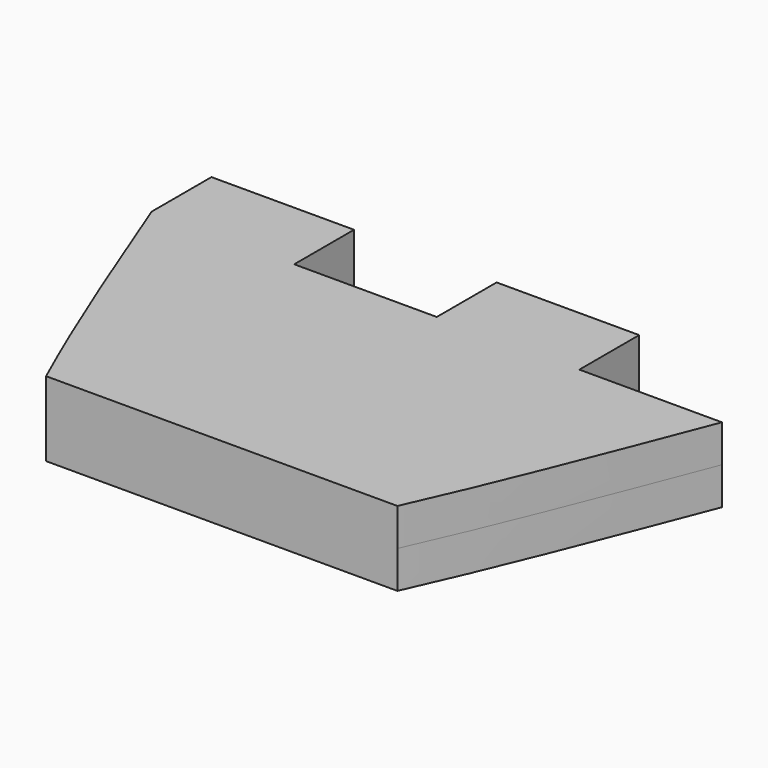
from build123d import *

# Parameters (mm, degrees)
F1_DEPTH = 1.6


with BuildPart() as f1:
    # F0 (on Top) → F1 (new body, symmetric)
    with BuildSketch(Plane.XY):
        with BuildLine():
            Line((-12.2, 3.2), (-12.2, 0))
            add(Edge.make_bspline(
                [(-12.2, 0), (-10.6386206895, -4.0314301868), (-9.0772413791, -8.0628603737), (-7.5158620686, -11.5)],
                knots=[0, 0, 0, 0, 0.191972866, 0.191972866, 0.191972866, 0.191972866], degree=3))
            Line((-7.5158620686, -11.5), (7.5158620686, -11.5))
            add(Edge.make_bspline(
                [(7.5158620686, -11.5), (9.0772413791, -8.0628603737), (10.6386206895, -4.0314301868), (12.2, 0)],
                knots=[0.808027134, 0.808027134, 0.808027134, 0.808027134, 1, 1, 1, 1], degree=3))
            Line((12.2, 0), (6.1, 0))
            Line((6.1, 0), (6.1, 3.2))
            Line((6.1, 3.2), (0, 3.2))
            Line((0, 3.2), (0, 0))
            Line((0, 0), (-6.1, 0))
            Line((-6.1, 0), (-6.1, 3.2))
            Line((-6.1, 3.2), (-12.2, 3.2))
        make_face()
    extrude(amount=F1_DEPTH, both=True)


solid = f1.part
